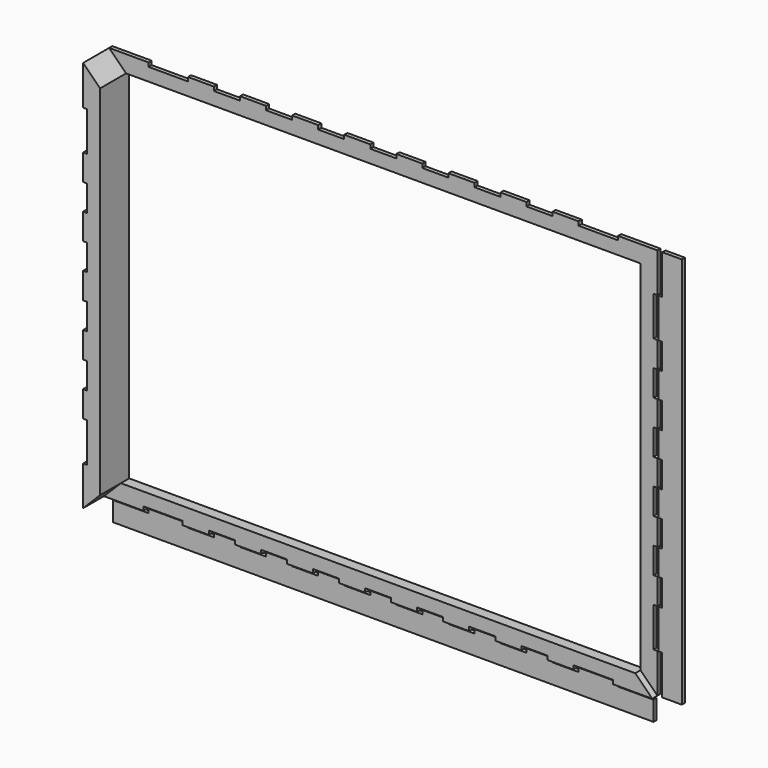
from build123d import *

# Parameters (mm, degrees)
F1_DEPTH = 3
F2_W     = 394.999992
F2_H     = 275.000081
F2_W_2   = 188.000184
F2_H_2   = 301.000059
F2_W_3   = 420.99997
F2_H_3   = 187.99984
F3_DEPTH = 25
F5_DEPTH = 25
F7_DEPTH = 5


with BuildPart() as f1:
    # F0 (on Front) → F1 (new body)
    with BuildSketch(Plane.XZ):
        Polygon((-283.602844, 253.852722), (-313.852849, 253.852722), (-313.852849, 223.602717), (-310.85286, 223.602717), (-310.85286, 193.352711), (-313.852849, 193.352711), (-313.852849, 173.352726), (-310.85286, 173.352726), (-310.85286, 153.352741), (-313.852849, 153.352741), (-313.852849, 133.352584), (-310.85286, 133.352584), (-310.85286, 113.352771), (-313.852849, 113.352771), (-313.852849, 93.352614), (-310.85286, 93.352614), (-310.85286, 73.352801), (-313.852849, 73.352801), (-313.852849, 53.352644), (-310.85286, 53.352644), (-310.85286, 33.352831), (-313.852849, 33.352831), (-313.852849, 13.352673), (-310.85286, 13.352673), (-310.85286, -16.897332), (-313.852849, -16.897332), (-313.852849, -47.147337), (-283.602844, -47.147337), (-283.602844, -44.147348), (-253.352838, -44.147348), (-253.352838, -47.147337), (-233.353026, -47.147337), (-233.353026, -44.147348), (-213.352868, -44.147348), (-213.352868, -47.147337), (-193.352711, -47.147337), (-193.352711, -44.147348), (-173.352898, -44.147348), (-173.352898, -47.147337), (-153.352741, -47.147337), (-153.352741, -44.147348), (-133.352928, -44.147348), (-133.352928, -47.147337), (-113.352771, -47.147337), (-113.352771, -44.147348), (-93.352958, -44.147348), (-93.352958, -47.147337), (-73.3528, -47.147337), (-73.3528, -44.147348), (-53.352988, -44.147348), (-53.352988, -47.147337), (-33.35283, -47.147337), (-33.35283, -44.147348), (-13.352673, -44.147348), (-13.352673, -47.147337), (6.64714, -47.147337), (6.64714, -44.147348), (26.646953, -44.147348), (26.646953, -47.147337), (46.64711, -47.147337), (46.64711, -44.147348), (76.897115, -44.147348), (76.897115, -47.147337), (107.147121, -47.147337), (107.147121, -16.897332), (104.147132, -16.897332), (104.147132, 13.352673), (107.147121, 13.352673), (107.147121, 33.352831), (104.147132, 33.352831), (104.147132, 53.352644), (107.147121, 53.352644), (107.147121, 73.352801), (104.147132, 73.352801), (104.147132, 93.352614), (107.147121, 93.352614), (107.147121, 113.352771), (104.147132, 113.352771), (104.147132, 133.352584), (107.147121, 133.352584), (107.147121, 153.352741), (104.147132, 153.352741), (104.147132, 173.352726), (107.147121, 173.352726), (107.147121, 193.352711), (104.147132, 193.352711), (104.147132, 223.602717), (107.147121, 223.602717), (107.147121, 253.852722), (76.897115, 253.852722), (76.897115, 250.852733), (46.64711, 250.852733), (46.64711, 253.852722), (26.646953, 253.852722), (26.646953, 250.852733), (6.64714, 250.852733), (6.64714, 253.852722), (-13.352673, 253.852722), (-13.352673, 250.852733), (-33.35283, 250.852733), (-33.35283, 253.852722), (-53.352988, 253.852722), (-53.352988, 250.852733), (-73.3528, 250.852733), (-73.3528, 253.852722), (-93.352958, 253.852722), (-93.352958, 250.852733), (-113.352771, 250.852733), (-113.352771, 253.852722), (-133.352928, 253.852722), (-133.352928, 250.852733), (-153.352741, 250.852733), (-153.352741, 253.852722), (-173.352898, 253.852722), (-173.352898, 250.852733), (-193.352711, 250.852733), (-193.352711, 253.852722), (-213.352868, 253.852722), (-213.352868, 250.852733), (-233.353026, 250.852733), (-233.353026, 253.852722), (-253.352838, 253.852722), (-253.352838, 250.852733), (-283.602844, 250.852733), align=None)
    extrude(amount=F1_DEPTH)


with BuildPart() as f1b:
    # F0 (on Front) → F1, piece 2 (new body)
    with BuildSketch(Plane.XZ):
        Polygon((134.352695, 253.852722), (110.852666, 253.852722), (110.852666, 223.602717), (107.852676, 223.602717), (107.852676, 193.352711), (110.852666, 193.352711), (110.852666, 173.352726), (107.852676, 173.352726), (107.852676, 153.352741), (110.852666, 153.352741), (110.852666, 133.352584), (107.852676, 133.352584), (107.852676, 113.352771), (110.852666, 113.352771), (110.852666, 93.352614), (107.852676, 93.352614), (107.852676, 73.352801), (110.852666, 73.352801), (110.852666, 53.352644), (107.852676, 53.352644), (107.852676, 33.352831), (110.852666, 33.352831), (110.852666, 13.352673), (107.852676, 13.352673), (107.852676, -16.897332), (110.852666, -16.897332), (110.852666, -47.147337), (134.352695, -47.147337), (134.352695, -44.147348), (160.852714, -44.147348), (160.852714, -47.147337), (180.852872, -47.147337), (180.852872, -44.147348), (200.852685, -44.147348), (200.852685, -47.147337), (220.852497, -47.147337), (220.852497, -44.147348), (240.852655, -44.147348), (240.852655, -47.147337), (260.852812, -47.147337), (260.852812, -44.147348), (287.352487, -44.147348), (287.352487, -47.147337), (310.852861, -47.147337), (310.852861, -16.897332), (313.85285, -16.897332), (313.85285, 13.352673), (310.852861, 13.352673), (310.852861, 33.352831), (313.85285, 33.352831), (313.85285, 53.352644), (310.852861, 53.352644), (310.852861, 73.352801), (313.85285, 73.352801), (313.85285, 93.352614), (310.852861, 93.352614), (310.852861, 113.352771), (313.85285, 113.352771), (313.85285, 133.352584), (310.852861, 133.352584), (310.852861, 153.352741), (313.85285, 153.352741), (313.85285, 173.352726), (310.852861, 173.352726), (310.852861, 193.352711), (313.85285, 193.352711), (313.85285, 223.602717), (310.852861, 223.602717), (310.852861, 253.852722), (287.352487, 253.852722), (287.352487, 250.852733), (260.852812, 250.852733), (260.852812, 253.852722), (240.852655, 253.852722), (240.852655, 250.852733), (220.852497, 250.852733), (220.852497, 253.852722), (200.852685, 253.852722), (200.852685, 250.852733), (180.852872, 250.852733), (180.852872, 253.852722), (160.852714, 253.852722), (160.852714, 250.852733), (134.352695, 250.852733), align=None)
    extrude(amount=F1_DEPTH)


with BuildPart() as f1c:
    # F0 (on Front) → F1, piece 3 (new body)
    with BuildSketch(Plane.XZ):
        Polygon((-283.602844, -50.852882), (-310.85286, -50.852882), (-310.85286, -74.352912), (-313.852849, -74.352912), (-313.852849, -100.852931), (-310.85286, -100.852931), (-310.85286, -120.852744), (-313.852849, -120.852744), (-313.852849, -140.852901), (-310.85286, -140.852901), (-310.85286, -160.852714), (-313.852849, -160.852714), (-313.852849, -180.852871), (-310.85286, -180.852871), (-310.85286, -200.852684), (-313.852849, -200.852684), (-313.852849, -227.352703), (-310.85286, -227.352703), (-310.85286, -250.852733), (-283.602844, -250.852733), (-283.602844, -253.852722), (-253.352838, -253.852722), (-253.352838, -250.852733), (-233.353026, -250.852733), (-233.353026, -253.852722), (-213.352868, -253.852722), (-213.352868, -250.852733), (-193.352711, -250.852733), (-193.352711, -253.852722), (-173.352898, -253.852722), (-173.352898, -250.852733), (-153.352741, -250.852733), (-153.352741, -253.852722), (-133.352928, -253.852722), (-133.352928, -250.852733), (-113.352771, -250.852733), (-113.352771, -253.852722), (-93.352958, -253.852722), (-93.352958, -250.852733), (-73.3528, -250.852733), (-73.3528, -253.852722), (-53.352988, -253.852722), (-53.352988, -250.852733), (-33.35283, -250.852733), (-33.35283, -253.852722), (-13.352673, -253.852722), (-13.352673, -250.852733), (6.64714, -250.852733), (6.64714, -253.852722), (26.646953, -253.852722), (26.646953, -250.852733), (46.64711, -250.852733), (46.64711, -253.852722), (76.897115, -253.852722), (76.897115, -250.852733), (104.147132, -250.852733), (104.147132, -227.352703), (107.147121, -227.352703), (107.147121, -200.852684), (104.147132, -200.852684), (104.147132, -180.852871), (107.147121, -180.852871), (107.147121, -160.852714), (104.147132, -160.852714), (104.147132, -140.852901), (107.147121, -140.852901), (107.147121, -120.852744), (104.147132, -120.852744), (104.147132, -100.852931), (107.147121, -100.852931), (107.147121, -74.352912), (104.147132, -74.352912), (104.147132, -50.852882), (76.897115, -50.852882), (76.897115, -47.852893), (46.64711, -47.852893), (46.64711, -50.852882), (26.646953, -50.852882), (26.646953, -47.852893), (6.64714, -47.852893), (6.64714, -50.852882), (-13.352673, -50.852882), (-13.352673, -47.852893), (-33.35283, -47.852893), (-33.35283, -50.852882), (-53.352988, -50.852882), (-53.352988, -47.852893), (-73.3528, -47.852893), (-73.3528, -50.852882), (-93.352958, -50.852882), (-93.352958, -47.852893), (-113.352771, -47.852893), (-113.352771, -50.852882), (-133.352928, -50.852882), (-133.352928, -47.852893), (-153.352741, -47.852893), (-153.352741, -50.852882), (-173.352898, -50.852882), (-173.352898, -47.852893), (-193.352711, -47.852893), (-193.352711, -50.852882), (-213.352868, -50.852882), (-213.352868, -47.852893), (-233.353026, -47.852893), (-233.353026, -50.852882), (-253.352838, -50.852882), (-253.352838, -47.852893), (-283.602844, -47.852893), align=None)
    extrude(amount=F1_DEPTH)


with BuildPart() as f3_tool:
    # F2 (on face) → F3 (new body)
    with BuildSketch(Plane.XZ.offset(3)):
        with Locations((-103.352864, 103.3526925)):
            Rectangle(F2_W, F2_H)
        with Locations((219.852758, 103.3526925)):
            Rectangle(F2_W_2, F2_H_2)
        with Locations((-103.352864, -159.852802)):
            Rectangle(F2_W_3, F2_H_3)
    extrude(amount=-F3_DEPTH)


with BuildPart() as f1_1:
    add(f1.part)

    # F3: cut by f3_tool
    add(f3_tool.part, mode=Mode.SUBTRACT)

    # F4 (on face) → F5 (join)
    with BuildSketch(Plane.XZ.offset(3)):
        Polygon((-313.852849, -47.147337), (-300.85286, -34.147348), (-300.85286, 240.852733), (-313.852849, 253.852722), (-313.852849, 223.602717), (-310.85286, 223.602717), (-310.85286, 193.352711), (-313.852849, 193.352711), (-313.852849, 173.352726), (-310.85286, 173.352726), (-310.85286, 153.352741), (-313.852849, 153.352741), (-313.852849, 133.352584), (-310.85286, 133.352584), (-310.85286, 113.352771), (-313.852849, 113.352771), (-313.852849, 93.352614), (-310.85286, 93.352614), (-310.85286, 73.352801), (-313.852849, 73.352801), (-313.852849, 53.352644), (-310.85286, 53.352644), (-310.85286, 33.352831), (-313.852849, 33.352831), (-313.852849, 13.352673), (-310.85286, 13.352673), (-310.85286, -16.897332), (-313.852849, -16.897332), align=None)
    extrude(amount=F5_DEPTH)

    # F6 (on face) → F7 (join)
    with BuildSketch(Plane.XZ.offset(3)):
        Polygon((76.897115, -47.147337), (107.147121, -47.147337), (94.147132, -34.147348), (-300.85286, -34.147348), (-313.852849, -47.147337), (-283.602844, -47.147337), (-283.602844, -44.147348), (-253.352838, -44.147348), (-253.352838, -47.147337), (-233.353026, -47.147337), (-233.353026, -44.147348), (-213.352868, -44.147348), (-213.352868, -47.147337), (-193.352711, -47.147337), (-193.352711, -44.147348), (-173.352898, -44.147348), (-173.352898, -47.147337), (-153.352741, -47.147337), (-153.352741, -44.147348), (-133.352928, -44.147348), (-133.352928, -47.147337), (-113.352771, -47.147337), (-113.352771, -44.147348), (-93.352958, -44.147348), (-93.352958, -47.147337), (-73.3528, -47.147337), (-73.3528, -44.147348), (-53.352988, -44.147348), (-53.352988, -47.147337), (-33.35283, -47.147337), (-33.35283, -44.147348), (-13.352673, -44.147348), (-13.352673, -47.147337), (6.64714, -47.147337), (6.64714, -44.147348), (26.646953, -44.147348), (26.646953, -47.147337), (46.64711, -47.147337), (46.64711, -44.147348), (76.897115, -44.147348), align=None)
    extrude(amount=F7_DEPTH)


with BuildPart() as f1b_1:
    add(f1b.part)

    # F3: cut by f3_tool
    add(f3_tool.part, mode=Mode.SUBTRACT)


with BuildPart() as f1c_1:
    add(f1c.part)

    # F3: cut by f3_tool
    add(f3_tool.part, mode=Mode.SUBTRACT)


solid = Compound([f1_1.part, f1b_1.part, f1c_1.part])
